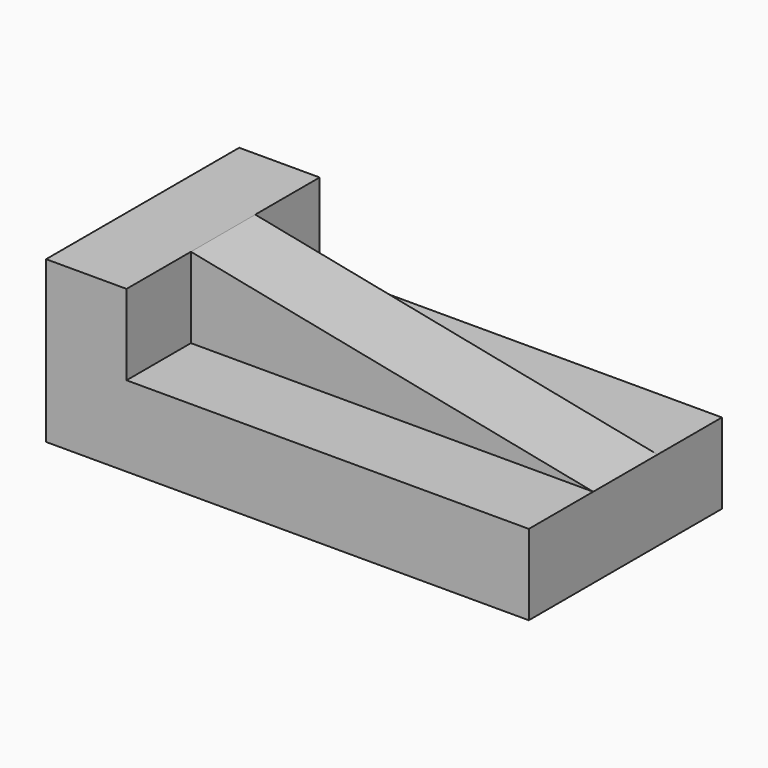
from build123d import *

# Parameters (mm, degrees)
F0_W     = 152.4
F0_H     = 50.8
F1_DEPTH = 76.2
F4_W     = 127
F4_H     = 25.4
F5_DEPTH = 38.1
F7_DEPTH = 12.7


with BuildPart() as f1:
    # F0 (on Front) → F1 (new body)
    with BuildSketch(Plane.XZ):
        with Locations((76.2, 25.4)):
            Rectangle(F0_W, F0_H)
    extrude(amount=F1_DEPTH)

    # F4 (on offset) → F5 (cut, symmetric)
    with BuildSketch(Plane.XZ.offset(38.1)):
        with Locations((88.9, 38.1)):
            Rectangle(F4_W, F4_H)
    extrude(amount=F5_DEPTH, both=True, mode=Mode.SUBTRACT)

    # F6 (on offset) → F7 (join, symmetric)
    with BuildSketch(Plane.XZ.offset(38.1)):
        Polygon((152.4, 25.4), (25.4, 50.8), (25.4, 25.4), align=None)
    extrude(amount=F7_DEPTH, both=True)


solid = f1.part
